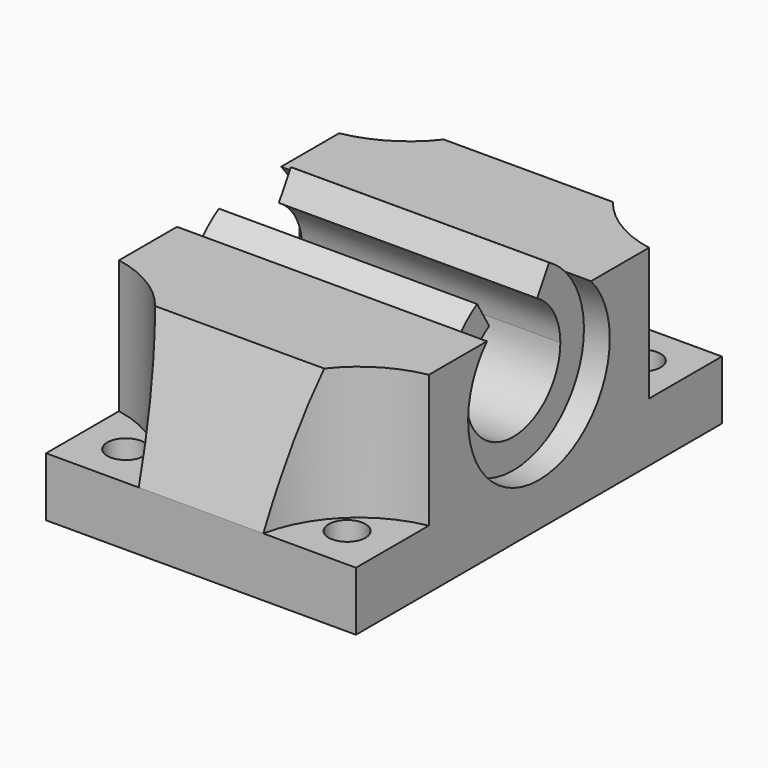
from build123d import *

# Parameters (mm, degrees)
F1_DEPTH = 21
F3_R     = 15.743514
F4_DEPTH = 33
F5_DEPTH = 17.5
F7_D     = 5


with BuildPart() as f1:
    # F0 (on Right) → F1 (new body, symmetric)
    with BuildSketch(Plane.YZ):
        with BuildLine():
            Line((24.448536, 8.14), (8.817052, 8.14))
            ThreePointArc((8.817052, 8.14), (0, -12), (-8.817052, 8.14))
            Line((-8.817052, 8.14), (-24.448536, 8.14))
            Line((-24.448536, 8.14), (-31, -9.86))
            Line((-31, -9.86), (-31, -17.86))
            Line((-31, -17.86), (0, -17.86))
            Line((0, -17.86), (31, -17.86))
            Line((31, -17.86), (31, -9.86))
            Line((31, -9.86), (24.448536, 8.14))
        make_face()
    extrude(amount=F1_DEPTH, both=True)

    # F3 (on offset) → F4 (cut)
    with BuildSketch(Plane(origin=(0, 0, -9.86), x_dir=(1, 0, 0), z_dir=(0, 0, -1))):
        with Locations((-23.872592, 34.129627)):
            Circle(F3_R)
        with Locations((-23.872592, -34.129627)):
            Circle(F3_R)
        with Locations((23.872592, -34.129627)):
            Circle(F3_R)
        with Locations((23.872592, 34.129627)):
            Circle(F3_R)
    extrude(amount=-F4_DEPTH, mode=Mode.SUBTRACT)

    # F0 (on Right) → F5 (join, symmetric)
    with BuildSketch(Plane.YZ):
        with BuildLine():
            ThreePointArc((4.060307, 6.893033), (6.945591, 3.969732), (8, 0))
            ThreePointArc((8, 0), (-3.969732, -6.945591), (-4.060307, 6.893033))
            Line((-4.060307, 6.893033), (-6.09046, 10.33955))
            ThreePointArc((-6.09046, 10.33955), (-7.534453, 9.339808), (-8.817052, 8.14))
            ThreePointArc((-8.817052, 8.14), (0, -12), (8.817052, 8.14))
            ThreePointArc((8.817052, 8.14), (7.534453, 9.339808), (6.09046, 10.33955))
            Line((6.09046, 10.33955), (4.060307, 6.893033))
        make_face()
    extrude(amount=F5_DEPTH, both=True)

    # F7 (through all)
    with Locations(Plane(origin=(0, 0, -17.86), x_dir=(1, 0, 0), z_dir=(0, 0, -1))):
        with Locations((-15, -25), (-15, 25), (15, 25), (15, -25)):
            Hole(F7_D / 2)


solid = f1.part
